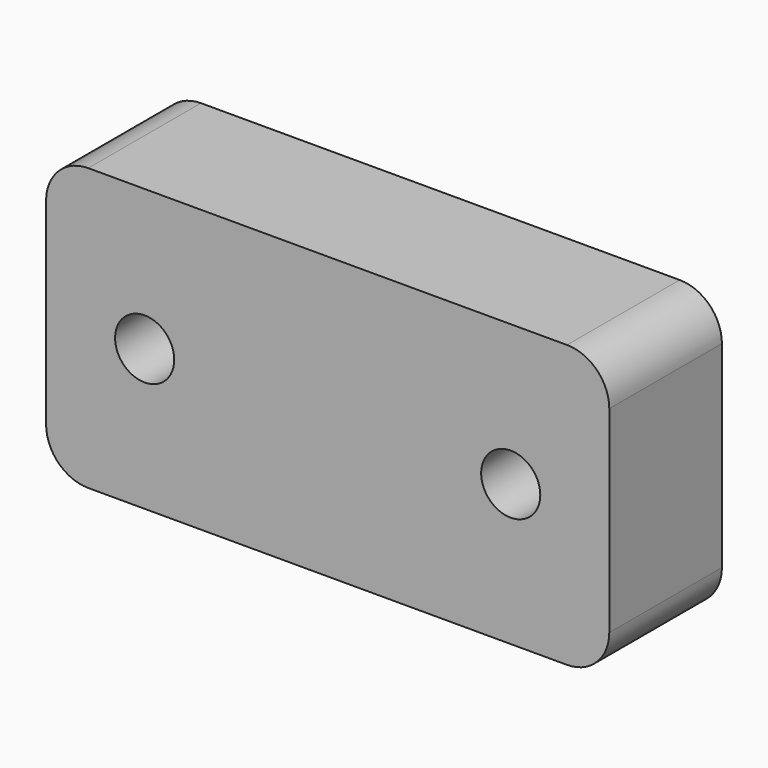
from build123d import *

# Parameters (mm, degrees)
PAD_DEPTH    = 10
SKETCH001_R  = 2.1
POCKET_DEPTH = 10
FILLET_R     = 3
PAD001_DEPTH = 8


with BuildPart() as part:
    # Sketch → Pad (new body, symmetric)
    with BuildSketch(Plane.XY):
        with BuildLine():
            Line((-20, 10), (-20, 0))
            Line((-20, 0), (20, 0))
            Line((20, 0), (20, 10))
            Line((20, 10), (5, 10))
            ThreePointArc((-5, 10), (0, 5), (5, 10))
            Line((-20, 10), (-5, 10))
        make_face()
    extrude(amount=PAD_DEPTH, both=True)

    # Sketch001 → Pocket (cut)
    with BuildSketch(Plane.XZ):
        with Locations((-13, 0)):
            Circle(SKETCH001_R)
        with Locations((13, 0)):
            Circle(SKETCH001_R)
    extrude(amount=-POCKET_DEPTH, mode=Mode.SUBTRACT)

    # Fillet
    fillet_edges = [part.edges().sort_by_distance(p)[0] for p in [
        (-20, 5, -10),
        (20, 5, -10),
        (-20, 5, 10),
        (20, 5, 10),
    ]]
    fillet(fillet_edges, radius=FILLET_R)

    # Sketch002 → Pad001 (new body)
    with BuildSketch(Plane.XY.offset(10)):
        with BuildLine():
            ThreePointArc((-5, 10), (0, 5), (5, 10))
            Line((-5, 10), (5, 10))
        make_face()
    extrude(amount=-PAD001_DEPTH)


solid = part.part
